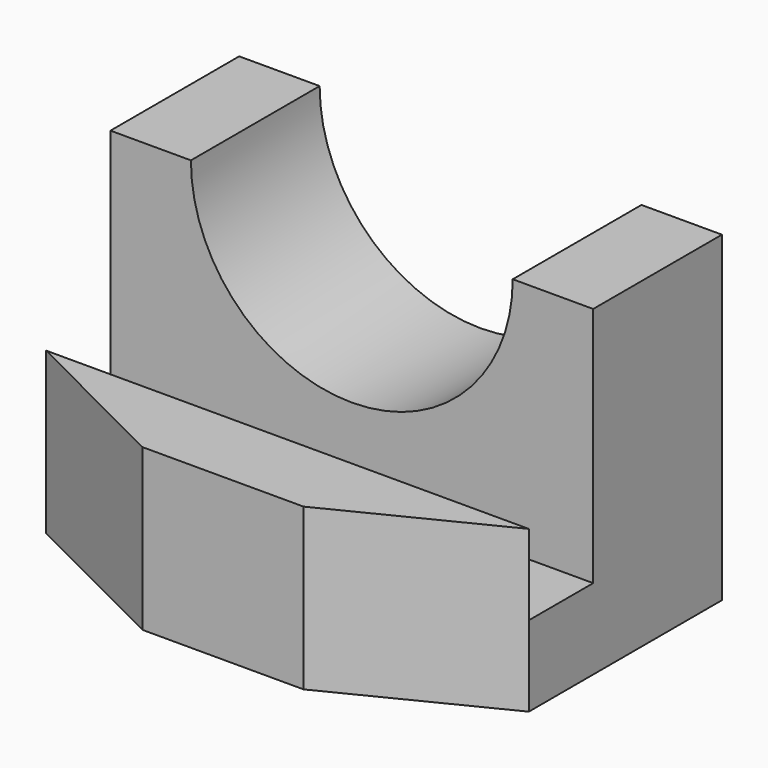
from build123d import *

# Parameters (mm, degrees)
F1_DEPTH = 20
F0_W     = 40
F0_H     = 20
F2_DEPTH = 40
F3_DEPTH = 10
F0_W_2   = 10
F4_DEPTH = 40
F6_DEPTH = 40.001


with BuildPart() as f1:
    # F0 (on Top) → F1 (new body)
    with BuildSketch(Plane.XY):
        Polygon((60, -30), (0, -30), (20, -40), (40, -40), align=None)
    extrude(amount=F1_DEPTH)



with BuildPart() as f2:
    # F0 (on Top) → F2 (new body)
    with BuildSketch(Plane.XY):
        with Locations((30, -10)):
            Rectangle(F0_W, F0_H)
    extrude(amount=F2_DEPTH)


with BuildPart() as f1_1:
    add(f1.part)

    add(f2.part)  # F3 merges F2
    # F0 (on Top) → F3 (join)
    with BuildSketch(Plane.XY):
        Polygon((10, -20), (0, -20), (0, -30), (60, -30), (60, -20), (50, -20), align=None)
    extrude(amount=F3_DEPTH)

    # F0 (on Top) → F4 (join)
    with BuildSketch(Plane.XY):
        with Locations((5, -10)):
            Rectangle(F0_W_2, F0_H)
        with Locations((55, -10)):
            Rectangle(F0_W_2, F0_H)
    extrude(amount=F4_DEPTH)

    # F5 (on Front) → F6 (cut, through all)
    with BuildSketch(Plane.XZ):
        with BuildLine():
            Line((50, 40), (10, 40))
            ThreePointArc((10, 40), (30, 20), (50, 40))
        make_face()
    extrude(amount=F6_DEPTH, mode=Mode.SUBTRACT)


solid = f1_1.part
